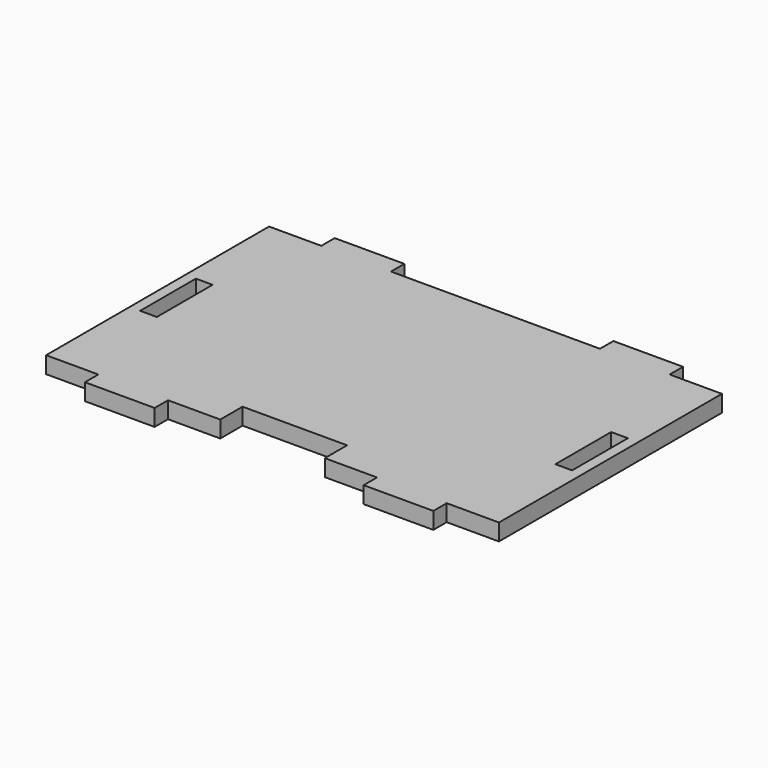
from build123d import *

# Parameters (mm, degrees)
F0_W     = 2.4
F0_H     = 10
F1_DEPTH = 2.4


with BuildPart() as f1:
    # F0 (on Top) → F1 (new body)
    with BuildSketch(Plane.XY):
        Polygon((32.5, -20), (32.5, 20), (25, 20), (25, 22.4), (15, 22.4), (15, 20), (-15, 20), (-15, 22.4), (-25, 22.4), (-25, 20), (-32.5, 20), (-32.5, -20), (-25, -20), (-25, -22.4), (-15, -22.4), (-15, -20), (-7.5, -20), (-7.5, -16), (7.5, -16), (7.5, -20), (15, -20), (15, -22.4), (25, -22.4), (25, -20), align=None)
        with Locations((-29.8, 0)):
            Rectangle(F0_W, F0_H, mode=Mode.SUBTRACT)
        with Locations((29.8, 0)):
            Rectangle(F0_W, F0_H, mode=Mode.SUBTRACT)
    extrude(amount=F1_DEPTH)


solid = f1.part
